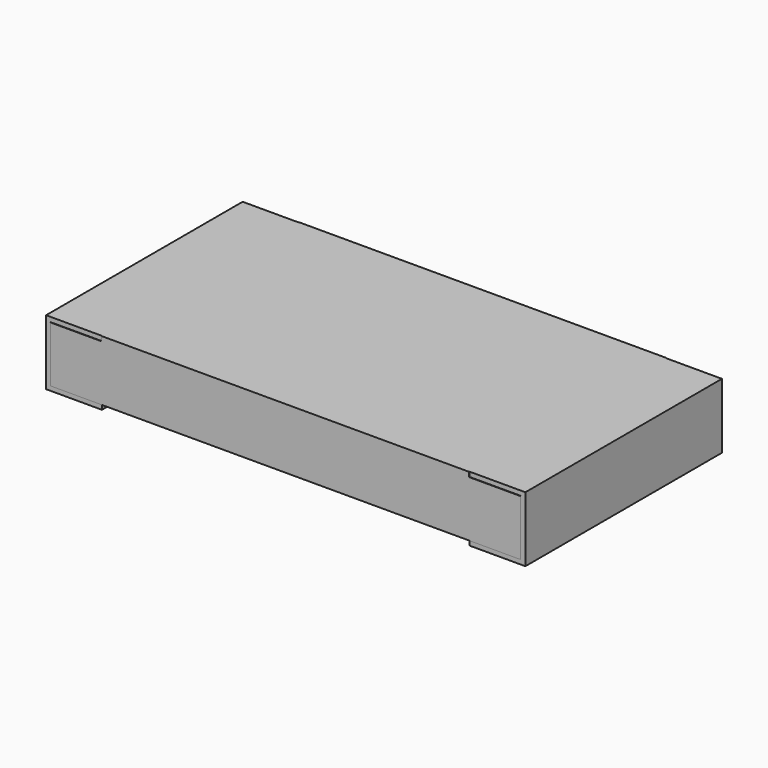
from build123d import *

# Parameters (mm, degrees)
PLATING_LEFT_W      = 0.6
PLATING_LEFT_H      = 2.64
PLATING_LEFT_DEPTH  = 0.7
PLATING_RIGHT_W     = 0.6
PLATING_RIGHT_H     = 2.64
PLATING_RIGHT_DEPTH = 0.7
MARKING_W           = 3.95
MARKING_H           = 2.65
MARKING_DEPTH       = 0.05
CHIP_W              = 5.05
CHIP_H              = 2.65
CHIP_DEPTH          = 0.6


with BuildPart() as plating_left:
    # plating_left → plating_left (new body)
    with BuildSketch(Plane(origin=(-2.575, -1.32, 0), x_dir=(1, 0, 0), z_dir=(0, 0, 1))):
        with Locations((0.3, 1.32)):
            Rectangle(PLATING_LEFT_W, PLATING_LEFT_H)
    extrude(amount=PLATING_LEFT_DEPTH)


with BuildPart() as plating_right:
    # plating_right → plating_right (new body)
    with BuildSketch(Plane(origin=(1.975, -1.32, 0), x_dir=(1, 0, 0), z_dir=(0, 0, 1))):
        with Locations((0.3, 1.32)):
            Rectangle(PLATING_RIGHT_W, PLATING_RIGHT_H)
    extrude(amount=PLATING_RIGHT_DEPTH)


with BuildPart() as marking:
    # marking → marking (new body)
    with BuildSketch(Plane(origin=(-1.975, -1.325, 0.65), x_dir=(1, 0, 0), z_dir=(0, 0, 1))):
        with Locations((1.975, 1.325)):
            Rectangle(MARKING_W, MARKING_H)
    extrude(amount=MARKING_DEPTH)


with BuildPart() as resistor:
    # chip → chip (new body)
    with BuildSketch(Plane(origin=(-2.525, -1.325, 0.05), x_dir=(1, 0, 0), z_dir=(0, 0, 1))):
        with Locations((2.525, 1.325)):
            Rectangle(CHIP_W, CHIP_H)
    extrude(amount=CHIP_DEPTH)

    # resistor: union plating_left, plating_right, marking
    add(plating_left.part)
    add(plating_right.part)
    add(marking.part)


solid = resistor.part
